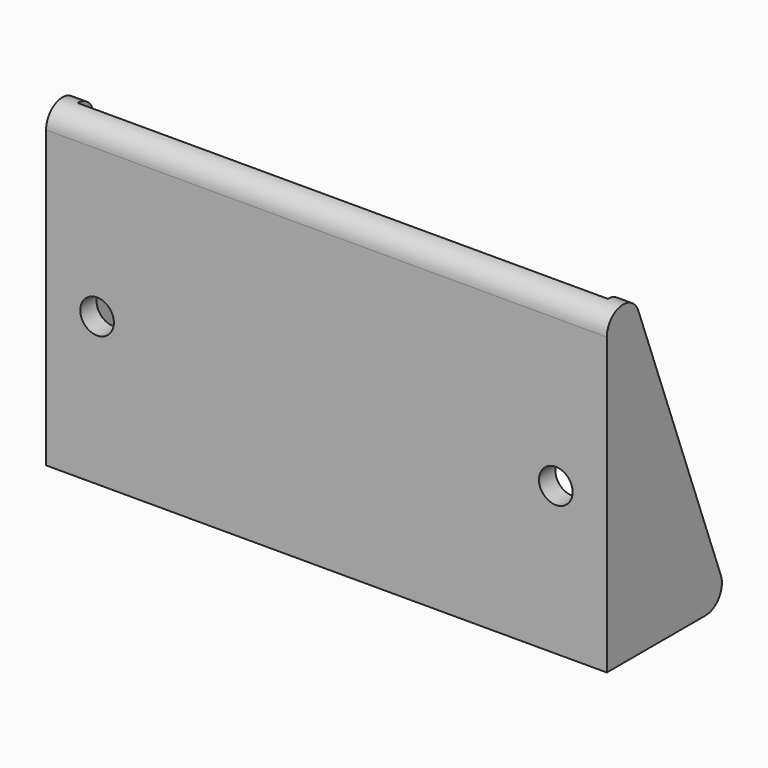
from build123d import *

# Parameters (mm, degrees)
PAD_DEPTH       = 27.5
PAD_DEPTH_BACK  = 27.5
FILLET_R        = 2
SKETCH001_W     = 52
SKETCH001_H     = 11.986657
POCKET_DEPTH    = 30
SKETCH002_R     = 1.65
POCKET001_DEPTH = 14.114999
SKETCH003_R     = 1.65
POCKET002_DEPTH = 2.001
FILLET001_R     = 2.5


with BuildPart() as part:
    # Sketch → Pad (new body, two sides)
    with BuildSketch(Plane.YZ) as pad_sk:
        Polygon((0, 0), (15, 0), (0, 40), align=None)
    extrude(amount=PAD_DEPTH)
    extrude(pad_sk.sketch, amount=-PAD_DEPTH_BACK)

    # Fillet
    fillet_edges = [part.edges().sort_by_distance(p)[0] for p in [
        (0, 0, 40),
        (0, 15, 0),
    ]]
    fillet(fillet_edges, radius=FILLET_R)

    # Sketch001 (on DatumPlane) → Pocket (cut)
    with BuildSketch(Plane.XY.offset(32)):
        with Locations((0, 7.993328)):
            Rectangle(SKETCH001_W, SKETCH001_H)
    extrude(amount=-POCKET_DEPTH, mode=Mode.SUBTRACT)

    # Sketch002 (on Face4 of Pocket) → Pocket001 (cut, through all)
    with BuildSketch(Plane(origin=(0, 0, 0), x_dir=(0, 0, -1), z_dir=(0, -1, 0))):
        with Locations((-14.485332, 22.5)):
            Circle(SKETCH002_R)
        with Locations((-14.485332, -22.5)):
            Circle(SKETCH002_R)
    extrude(amount=-POCKET001_DEPTH, mode=Mode.SUBTRACT)

    # Sketch003 (on Face15 of Pocket001) → Pocket002 (cut, through all)
    with BuildSketch(Plane(origin=(0, 0, 2), x_dir=(0, -1, 0), z_dir=(0, 0, 1))):
        with Locations((-7.986657, 15)):
            Circle(SKETCH003_R)
        with Locations((-7.986657, -15)):
            Circle(SKETCH003_R)
    extrude(amount=-POCKET002_DEPTH, mode=Mode.SUBTRACT)

    # Fillet001
    fillet001_edges = [part.edges().sort_by_distance(p)[0] for p in [
        (0, 2, 2),
    ]]
    fillet(fillet001_edges, radius=FILLET001_R)


solid = part.part
